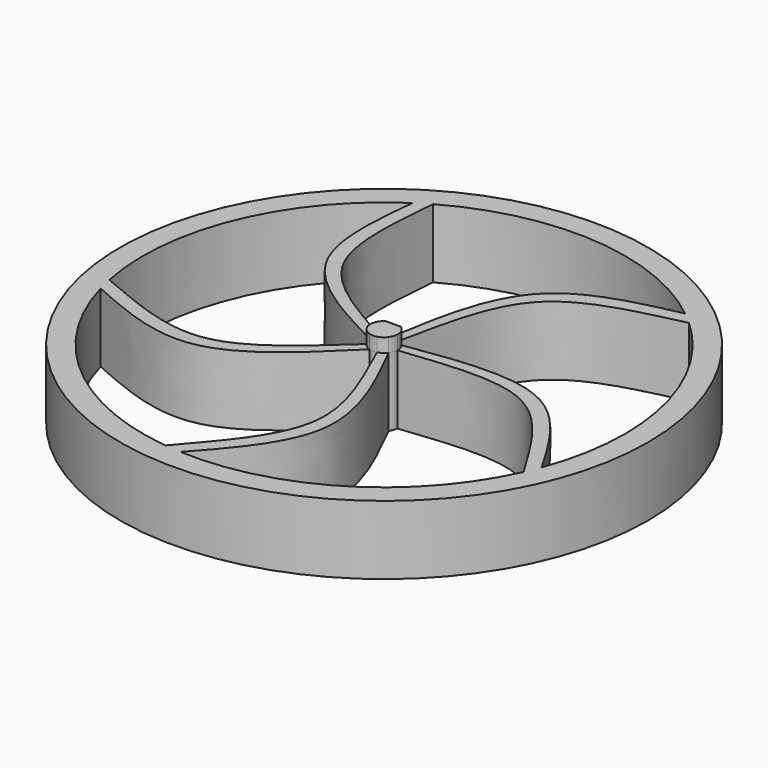
from build123d import *

# Parameters (mm, degrees)
F0_R     = 57.5
F1_DEPTH = 15
F2_DEPTH = 15
F4_COUNT = 5
F6_DEPTH = 3


with BuildPart() as f1:
    # F0 (on Top) → F1 (new body)
    with BuildSketch(Plane.XY):
        Circle(F0_R)
        with BuildLine():
            ThreePointArc((-25.8787150819, 45.6786832747), (26.4349906204, 45.3590263443), (52.5, 0))
            ThreePointArc((52.5, 0), (-24.9083328879, -46.2149862355), (-28.8647601045, 43.8528861548))
            ThreePointArc((-28.8647601045, 43.8528861548), (-27.386956798, 44.7906753393), (-25.8787150819, 45.6786832747))
        make_face(mode=Mode.SUBTRACT)
    extrude(amount=F1_DEPTH)



with BuildPart() as f1b:
    # F0 (on Top) → F1, piece 2 (new body)
    with BuildSketch(Plane.XY):
        with BuildLine():
            ThreePointArc((3, 0), (1, 2.8284271247), (-2.3333333333, 1.8856180832))
            ThreePointArc((-2.3333333333, 1.8856180832), (-2.8284271247, 1), (-3, 0))
            ThreePointArc((-3, 0), (0, -3), (3, 0))
        make_face()
    extrude(amount=F1_DEPTH)


with BuildPart() as f1_1:
    add(f1.part)

    add(f1b.part)  # F2 merges F1b
    # F0 (on Top) → F2 (join)
    with BuildSketch(Plane.XY):
        with BuildLine():
            add(Edge.make_bspline(
                [(-2.3333333333, 1.8856180832), (-10.9416758466, 6.9247769231), (-29.1664290337, 16.1295933501), (-26.623576941, 36.0633998347), (-25.8787150819, 45.6786832747)],
                knots=[0, 0, 0, 0, 0.5034367583, 1, 1, 1, 1], degree=3))
            ThreePointArc((-25.8787150819, 45.6786832747), (-27.386956798, 44.7906753393), (-28.8647601045, 43.8528861548))
            add(Edge.make_bspline(
                [(-3, 0), (-12.803393035, 5.0838333397), (-31.7879164967, 14.9257102522), (-29.8275065593, 34.4356080017), (-28.8647601045, 43.8528861548)],
                knots=[0, 0, 0, 0, 0.5163354868, 1, 1, 1, 1], degree=3))
            ThreePointArc((-3, 0), (-2.8284271247, 1), (-2.3333333333, 1.8856180832))
        make_face()
    extrude(amount=F2_DEPTH)

    # F4: F1 ×5 about axis
    f4_axis = Axis((0, 0, 5.5775735527), (0, 0, -1))


with BuildPart() as f1_2:
    add(f1_1.part)
    for i in range(1, F4_COUNT):
        add(f1_1.part.rotate(f4_axis, i * 360 / F4_COUNT))

    # F5 (on face) → F6 (join)
    with BuildSketch(Plane.XY.offset(15)):
        with BuildLine():
            Line((1.6583123952, 2.5), (-1.6583123952, 2.5))
            ThreePointArc((-1.6583123952, 2.5), (-2.0193254295, 2.2186312919), (-2.3333333333, 1.8856180832))
            ThreePointArc((-2.3333333333, 1.8856180832), (-2.8284271247, 1), (-3, 0))
            ThreePointArc((-3, 0), (-2.8760308636, -0.8534907567), (-2.5143690188, -1.6364438388))
            ThreePointArc((-2.5143690188, -1.6364438388), (-1.8250885652, -2.3809770535), (-0.9270509831, -2.8531695489))
            ThreePointArc((-0.9270509831, -2.8531695489), (-0.0770244674, -2.9990110422), (0.7793678195, -2.8969959962))
            ThreePointArc((0.7793678195, -2.8969959962), (1.700460359, -2.4715247455), (2.4270509831, -1.7633557569))
            ThreePointArc((2.4270509831, -1.7633557569), (2.8284271247, -1), (2.9960448209, -0.1539981522))
            ThreePointArc((2.9960448209, -0.1539981522), (2.8760308636, 0.8534907567), (2.4270509831, 1.7633557569))
            ThreePointArc((2.4270509831, 1.7633557569), (2.0756227182, 2.1660540925), (1.6583123952, 2.5))
        make_face()
    extrude(amount=F6_DEPTH)


solid = f1_2.part
